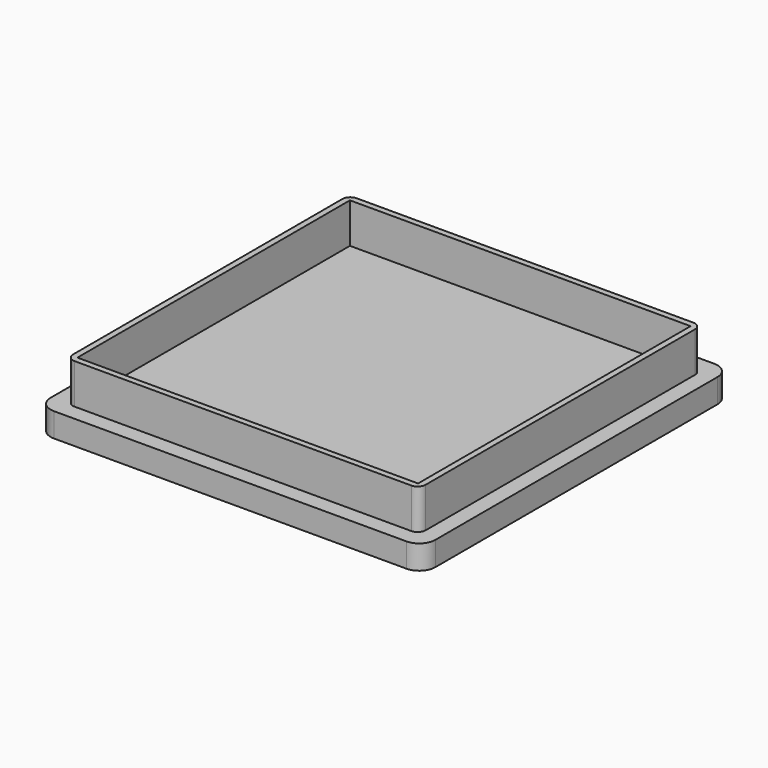
from build123d import *

# Parameters (mm, degrees)
F0_W     = 48
F0_H     = 48
F1_DEPTH = 3
F2_R     = 2
F3_W     = 44
F3_H     = 44
F3_W_2   = 42.5
F3_H_2   = 42.5
F4_DEPTH = 5
F5_R     = 1


with BuildPart() as f1:
    # F0 (on Top) → F1 (new body)
    with BuildSketch(Plane.XY):
        with Locations((24, -24)):
            Rectangle(F0_W, F0_H)
    extrude(amount=F1_DEPTH)

    # F2
    f2_edges = [f1.edges().sort_by_distance(p)[0] for p in [
        (48, -48, 1.5),
        (0, -48, 1.5),
        (48, 0, 1.5),
        (0, 0, 1.5),
    ]]
    fillet(f2_edges, radius=F2_R)

    # F3 (on face) → F4 (join)
    with BuildSketch(Plane.XY.offset(3)):
        with Locations((24, -24)):
            Rectangle(F3_W, F3_H)
        with Locations((24, -24)):
            Rectangle(F3_W_2, F3_H_2, mode=Mode.SUBTRACT)
    extrude(amount=F4_DEPTH)

    # F5
    f5_edges = [f1.edges().sort_by_distance(p)[0] for p in [
        (46, -2, 5.5),
        (2, -2, 5.5),
        (2, -46, 5.5),
        (46, -46, 5.5),
    ]]
    fillet(f5_edges, radius=F5_R)


solid = f1.part
